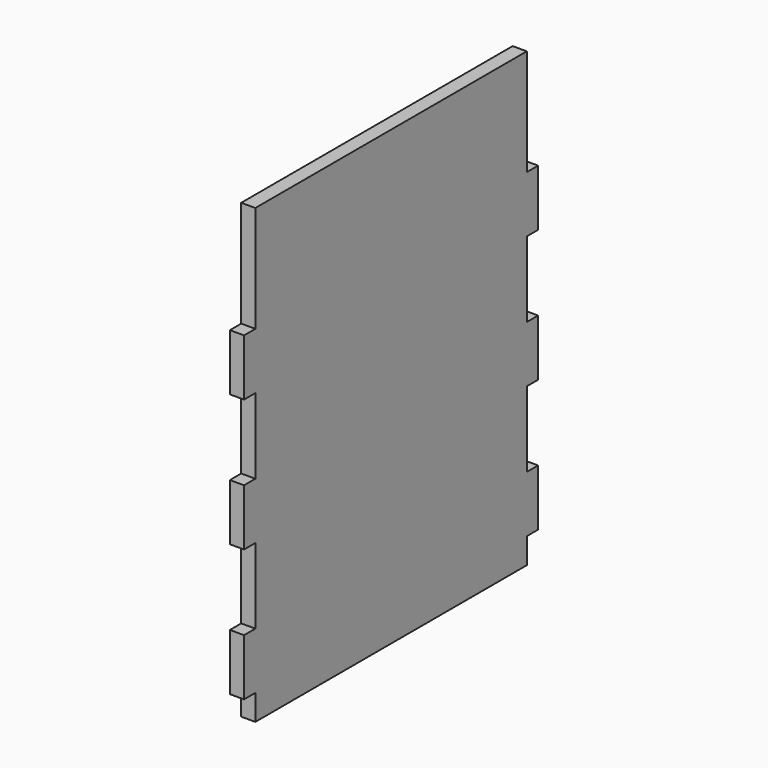
from build123d import *

# Parameters (mm, degrees)
F0_W     = 19.05
F0_H     = 76.2
F1_DEPTH = 19.05


with BuildPart() as f1:
    # F0 (on Right) → F1 (new body)
    with BuildSketch(Plane.YZ):
        Polygon((0, 34.459569), (0, 0), (457.2, 0), (457.2, 34.459569), (457.2, 110.659569), (457.2, 212.259569), (457.2, 288.459569), (457.2, 390.059569), (457.2, 466.259569), (457.2, 609.6), (0, 609.6), (0, 466.259569), (0, 390.059569), (0, 288.459569), (0, 212.259569), (0, 110.659569), align=None)
        with Locations((-9.525, 72.559569)):
            Rectangle(F0_W, F0_H)
        with Locations((466.725, 72.559569)):
            Rectangle(F0_W, F0_H)
        with Locations((-9.525, 250.359569)):
            Rectangle(F0_W, F0_H)
        with Locations((466.725, 250.359569)):
            Rectangle(F0_W, F0_H)
        with Locations((-9.525, 428.159569)):
            Rectangle(F0_W, F0_H)
        with Locations((466.725, 428.159569)):
            Rectangle(F0_W, F0_H)
    extrude(amount=F1_DEPTH)


solid = f1.part
